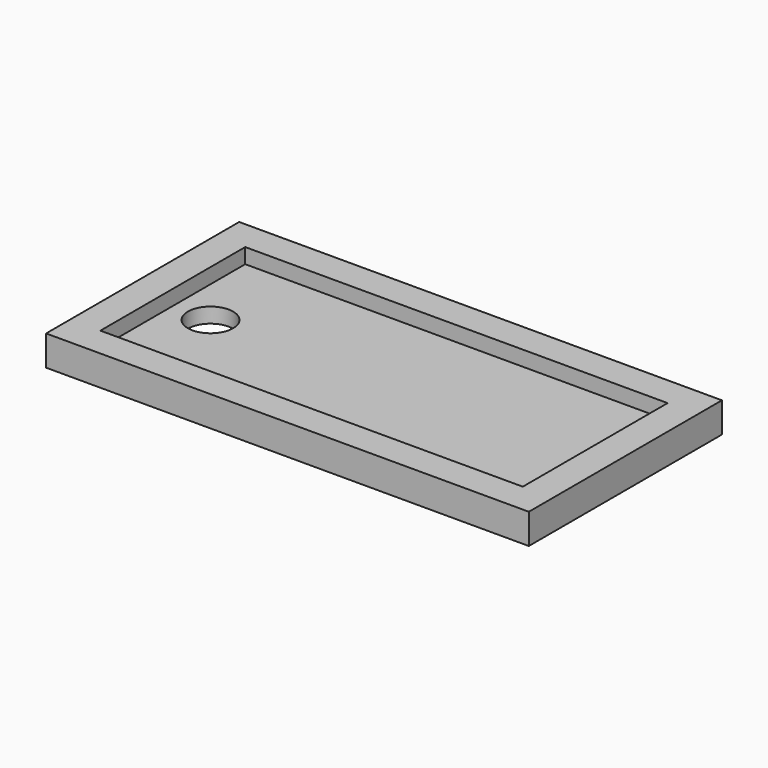
from build123d import *

# Parameters (mm, degrees)
F0_W     = 44.45
F0_H     = 19.05
F0_R     = 2.38125
F1_DEPTH = 1.5875
F0_W_2   = 50.8
F0_H_2   = 25.4
F2_DEPTH = 3.175


with BuildPart() as f1:
    # F0 (on Top) → F1 (new body)
    with BuildSketch(Plane.XY):
        with Locations((25.4, 12.7)):
            Rectangle(F0_W, F0_H)
        with Locations((7.14375, 12.7)):
            Circle(F0_R, mode=Mode.SUBTRACT)
    extrude(amount=F1_DEPTH)

    # F0 (on Top) → F2 (join)
    with BuildSketch(Plane.XY):
        with Locations((25.4, 12.7)):
            Rectangle(F0_W_2, F0_H_2)
        with Locations((25.4, 12.7)):
            Rectangle(F0_W, F0_H, mode=Mode.SUBTRACT)
    extrude(amount=F2_DEPTH)


solid = f1.part
